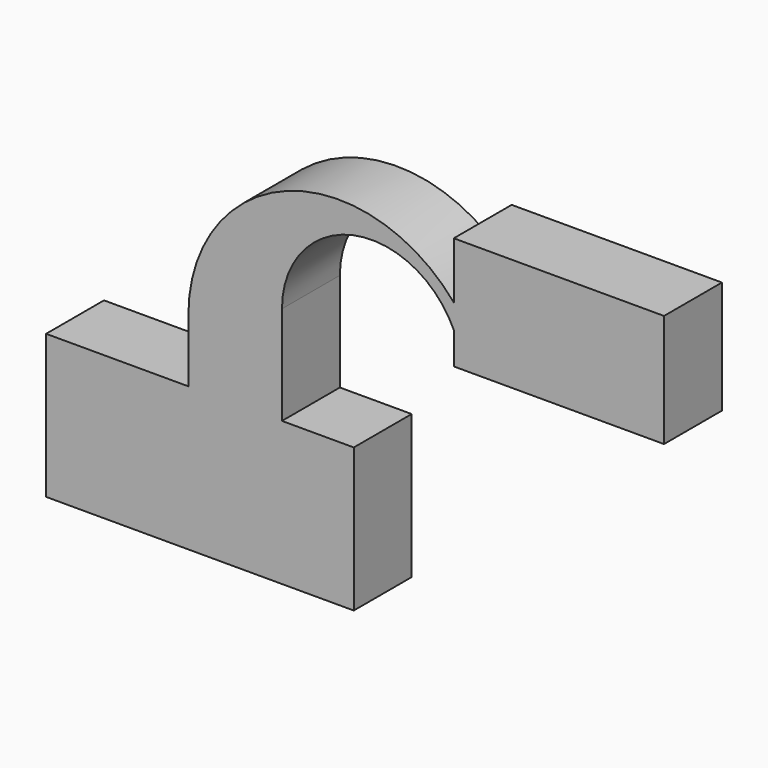
from build123d import *

# Parameters (mm, degrees)
F1_DEPTH = 25.4


with BuildPart() as f1:
    # F0 (on Front) → F1 (new body)
    with BuildSketch(Plane.XZ):
        Polygon((-4.048808, 20.918848), (-53.984117, 20.918848), (-53.984117, -29.466329), (53.984117, -29.466329), (53.984117, 20.918848), (28.791532, 20.918848), align=None)
        with BuildLine():
            Line((-4.048808, 42.962365), (-4.048808, 20.918848))
            Line((-4.048808, 20.918848), (28.791532, 20.918848))
            Line((28.791532, 20.918848), (28.791532, 55.558659))
            ThreePointArc((28.791532, 55.558659), (53.670281, 86.397568), (89.073792, 68.604819))
            Line((89.073792, 68.604819), (89.073792, 77.152304))
            ThreePointArc((89.073792, 77.152304), (30.578157, 92.562694), (-4.048808, 42.962365))
        make_face()
        Polygon((89.073792, 96.946478), (89.073792, 77.152304), (89.073792, 68.604819), (89.073792, 57.358131), (162.852123, 57.358131), (162.852123, 96.946478), align=None)
    extrude(amount=F1_DEPTH)


solid = f1.part
